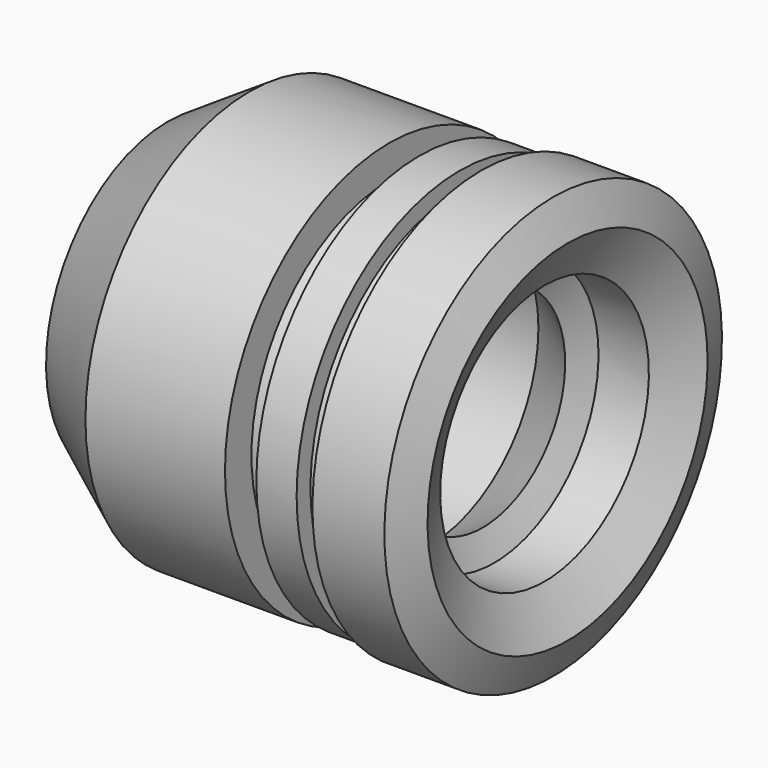
from build123d import *


with BuildPart() as f1:
    # F0 (on Front) → F1 (revolve)
    with BuildSketch(Plane.XZ):
        Polygon((6.946762, 30.415747), (5.848836, 25.608581), (11.263847, 24.371827), (21.624854, 24.371827), (23.927299, 17.752293), (37.166368, 17.464489), (36.30295, 27.249882), (59.327412, 27.249882), (69.976225, 20.63035), (72.278671, 26.098661), (82.351863, 26.098661), (86.956762, 35.020638), (84.078699, 42.215787), (75.444527, 42.215787), (69.688417, 42.215787), (69.688417, 37.323084), (65.371335, 37.323084), (65.371335, 40.776756), (57.312772, 40.776756), (57.312772, 34.445029), (51.268846, 34.445029), (51.268846, 41.06456), (23.351688, 41.06456), align=None)
    revolve(axis=Axis((38.350116, 0, 0), (1, 0, 0)))


solid = f1.part
